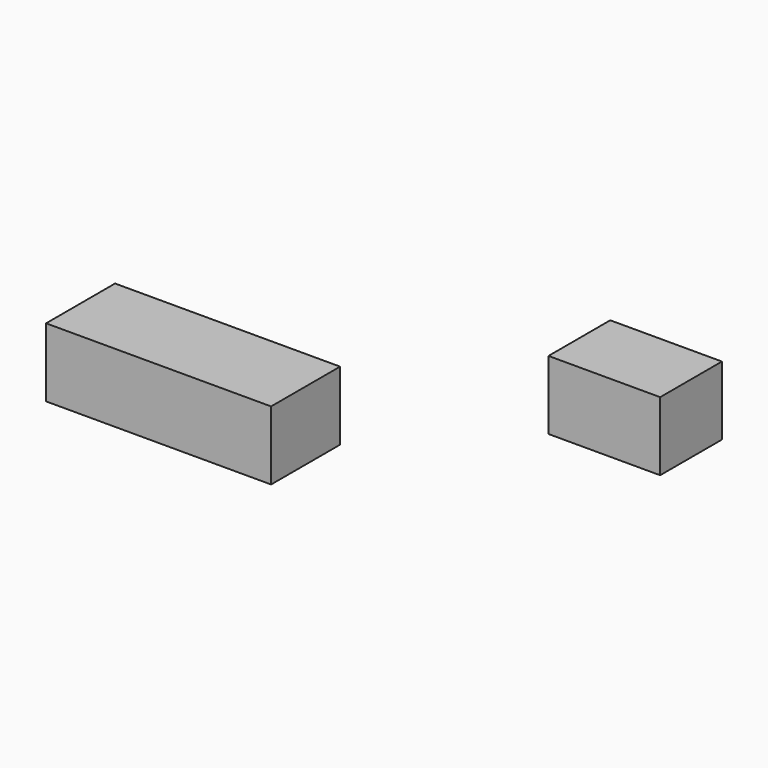
from build123d import *

# Parameters (mm, degrees)
F0_W     = 83.131366
F0_H     = 31.85692
F1_DEPTH = 25.4


with BuildPart() as f1:
    # F0 (on Top) → F1 (new body)
    with BuildSketch(Plane.XY):
        Polygon((84.344946, 87.227248), (84.344946, 71.531192), (84.344946, 58.707736), (125.60723, 58.707736), (125.60723, 87.227248), align=None)
        Rectangle(F0_W, F0_H)
    extrude(amount=F1_DEPTH)


solid = f1.part
